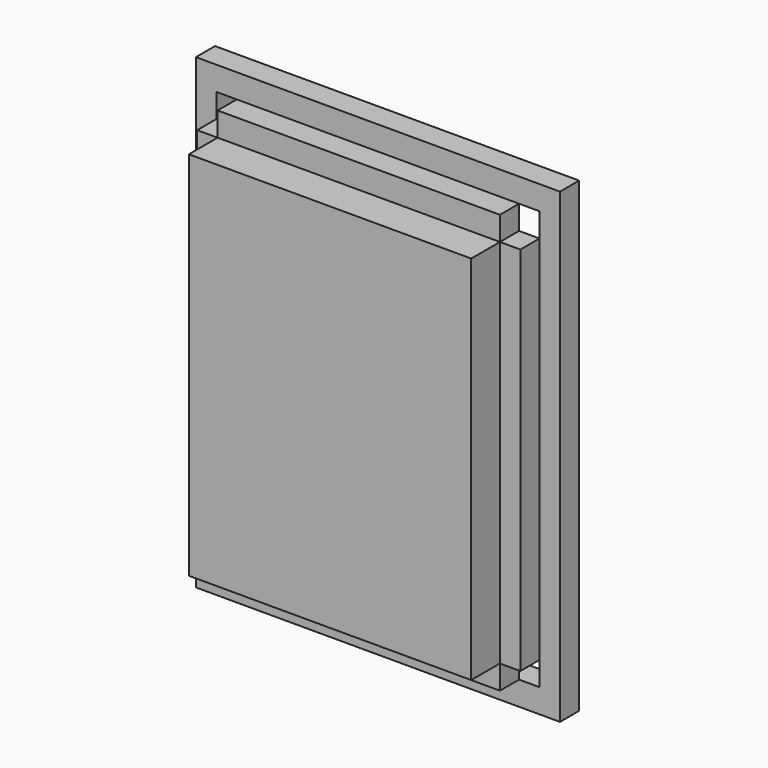
from build123d import *

# Parameters (mm, degrees)
F0_W     = 29.9539973129
F0_H     = 39.37
F1_DEPTH = 6.35
F0_W_2   = 2.1686380141
F0_H_2   = 2.54
F0_W_3   = 2.167364673
F2_DEPTH = 2.54
F3_DEPTH = 2.54


with BuildPart() as f1:
    # F0 (on Front) → F1 (new body)
    with BuildSketch(Plane.XZ):
        with Locations((-0.0006366705, 0)):
            Rectangle(F0_W, F0_H)
    extrude(amount=F1_DEPTH)



with BuildPart() as f2:
    # F0 (on Front) → F2 (new body)
    with BuildSketch(Plane.XZ):
        Polygon((19.3136380141, -22.225), (17.145, -22.225), (14.9763619859, -22.225), (-14.977635327, -22.225), (-17.145, -22.225), (-19.312364673, -22.225), (-19.312364673, -19.685), (-19.3136380141, -19.685), (-19.3136380141, -24.765), (19.3136380141, -24.765), align=None)
        with Locations((18.2293190071, -20.955)):
            Rectangle(F0_W_2, F0_H_2)
        with Locations((18.2293190071, 0)):
            Rectangle(F0_W_2, F0_H)
        with Locations((18.2293190071, 20.955)):
            Rectangle(F0_W_2, F0_H_2)
        with Locations((-18.2286823365, -20.955)):
            Rectangle(F0_W_3, F0_H_2)
        Polygon((14.9763619859, 22.225), (17.145, 22.225), (19.3136380141, 22.225), (19.3136380141, 24.765), (-19.3136380141, 24.765), (-19.3136380141, 19.685), (-19.312364673, 19.685), (-19.312364673, 22.225), (-17.145, 22.225), (-14.977635327, 22.225), align=None)
        with Locations((-18.2286823365, 0)):
            Rectangle(F0_W_3, F0_H)
        with Locations((-18.2286823365, 20.955)):
            Rectangle(F0_W_3, F0_H_2)
    extrude(amount=-F2_DEPTH)


with BuildPart() as f1_1:
    add(f1.part)

    add(f2.part)  # F3 merges F2
    # F0 (on Front) → F3 (join)
    with BuildSketch(Plane.XZ):
        with Locations((-0.0006366705, 20.955)):
            Rectangle(F0_W, F0_H_2)
        with Locations((16.0606809929, 0)):
            Rectangle(F0_W_2, F0_H)
        with Locations((-0.0006366705, -20.955)):
            Rectangle(F0_W, F0_H_2)
        with Locations((-16.0613176635, 0)):
            Rectangle(F0_W_3, F0_H)
    extrude(amount=F3_DEPTH)


solid = f1_1.part
